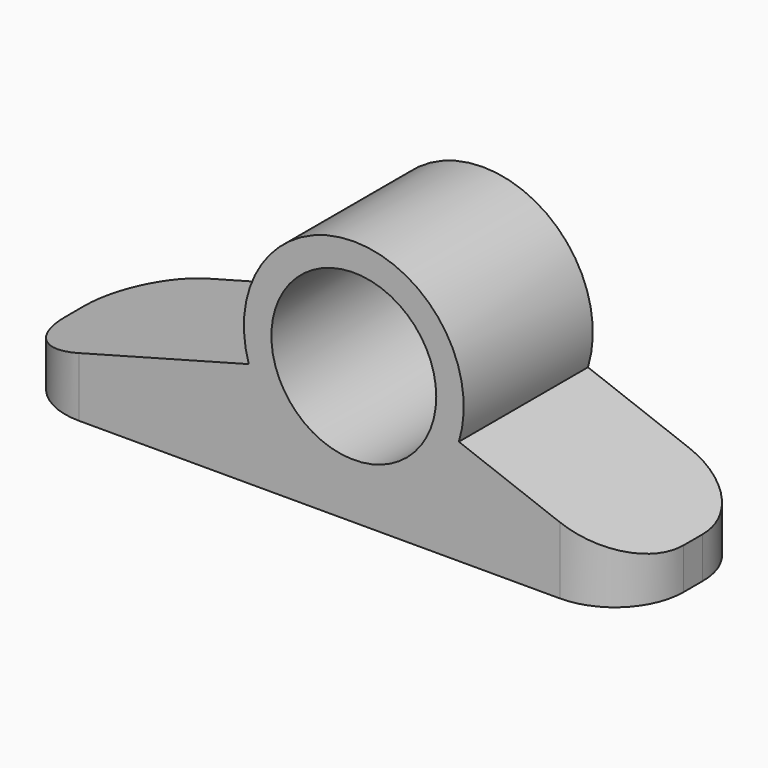
from build123d import *

# Parameters (mm, degrees)
F0_W     = 45
F0_H     = 11.742345
F1_DEPTH = 3
F2_R     = 6
F3_DEPTH = 11.742345
F4_R     = 5


with BuildPart() as f1:
    # F0 (on Top) → F1 (new body)
    with BuildSketch(Plane.XY):
        with Locations((-22.5, 5.8711725)):
            Rectangle(F0_W, F0_H)
    extrude(amount=F1_DEPTH)

    # F2 (on Front) → F3 (join)
    with BuildSketch(Plane.XZ):
        with BuildLine():
            Line((-45, 3), (0, 3))
            Line((0, 3), (-12.3530250157, 7.6497290392))
            ThreePointArc((-12.3530250157, 7.6497290392), (-20, 18), (-27.6469749843, 7.6497290392))
            Line((-27.6469749843, 7.6497290392), (-45, 3))
        make_face()
        with Locations((-20, 10)):
            Circle(F2_R, mode=Mode.SUBTRACT)
    extrude(amount=-F3_DEPTH)

    # F4
    f4_edges = [f1.edges().sort_by_distance(p)[0] for p in [
        (-45, 0, 1.5),
        (0, 0, 1.5),
        (0, 11.742345, 1.5),
        (-45, 11.742345, 1.5),
    ]]
    fillet(f4_edges, radius=F4_R)


solid = f1.part
